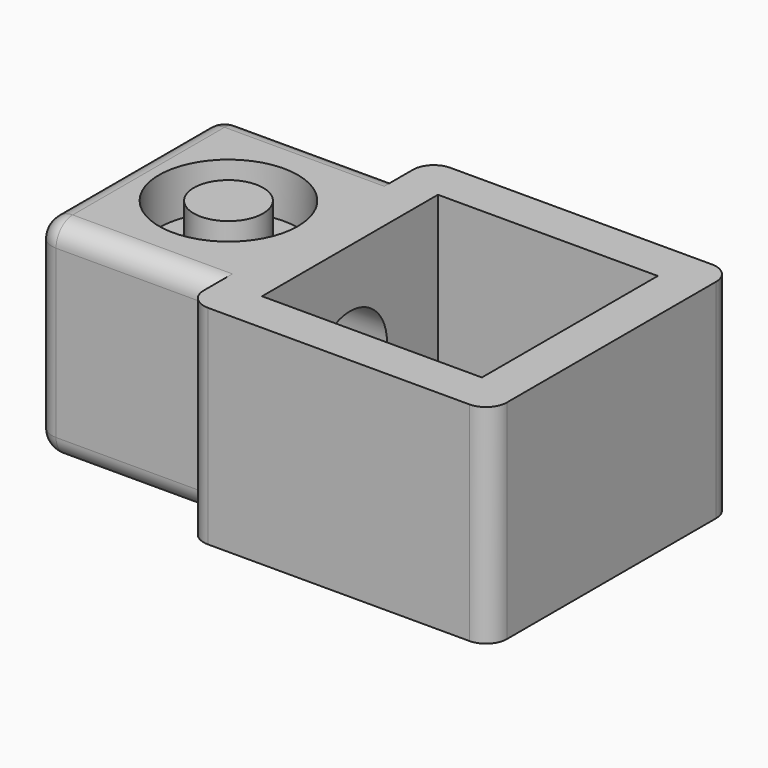
from build123d import *

# Parameters (mm, degrees)
F0_W     = 13.1
F0_H     = 13.1
F0_W_2   = 9.5
F0_H_2   = 9.5
F1_DEPTH = 9
F3_DEPTH = 5
F5_R     = 3
F5_R_2   = 1.5
F6_DEPTH = 2
F8_DEPTH = 25
F9_R     = 0.9


with BuildPart() as f1:
    # F0 (on Top) → F1 (new body)
    with BuildSketch(Plane.XY):
        Rectangle(F0_W, F0_H)
        Rectangle(F0_W_2, F0_H_2, mode=Mode.SUBTRACT)
    extrude(amount=F1_DEPTH)

    # F2 (on Front) → F3 (join, symmetric)
    with BuildSketch(Plane.XZ):
        Polygon((-6.55, 0), (-6.55, 4.5), (-9.55, 4.5), (-9.55, 6.775), (-11.05, 6.775), (-11.05, 4.5), (-12.85, 4.5), (-12.85, 6.775), (-14.35, 6.775), (-14.35, 2.975), align=None)
        Polygon((-9.55, 4.5), (-6.55, 4.5), (-6.55, 9), (-14.35, 9), (-14.35, 6.775), (-12.85, 6.775), (-12.85, 4.5), (-11.05, 4.5), (-11.05, 6.775), (-9.55, 6.775), align=None)
        Polygon((-14.35, 0), (-6.55, 0), (-14.35, 2.975), align=None)
    extrude(amount=F3_DEPTH, both=True)

    # F5 (on offset) → F6 (cut)
    with BuildSketch(Plane.XY.offset(9)):
        with Locations((-10, 0)):
            Circle(F5_R)
        with Locations((-10, 0)):
            Circle(F5_R_2, mode=Mode.SUBTRACT)
    extrude(amount=-F6_DEPTH, mode=Mode.SUBTRACT)

    # F7 (on Right) → F8 (cut)
    with BuildSketch(Plane.YZ):
        with BuildLine():
            ThreePointArc((0, 2.5), (1.4142135624, 3.0857864376), (2, 4.5))
            ThreePointArc((2, 4.5), (-1.4142135624, 5.9142135624), (0, 2.5))
        make_face()
    extrude(amount=-F8_DEPTH, mode=Mode.SUBTRACT)

    # F9
    f9_edges = [f1.edges().sort_by_distance(p)[0] for p in [
        (-14.35, 0, 9),
        (-14.35, 5, 4.5),
        (-14.35, -5, 4.5),
        (-14.35, 0, 0),
        (-14.35, 0, 6.5),
        (-6.55, 6.55, 4.5),
        (6.55, 6.55, 4.5),
        (-6.55, -6.55, 4.5),
        (-10.45, 5, 9),
        (-10.45, 5, 0),
        (6.55, -6.55, 4.5),
        (-10.45, -5, 0),
        (-10.45, -5, 9),
    ]]
    fillet(f9_edges, radius=F9_R)


solid = f1.part
